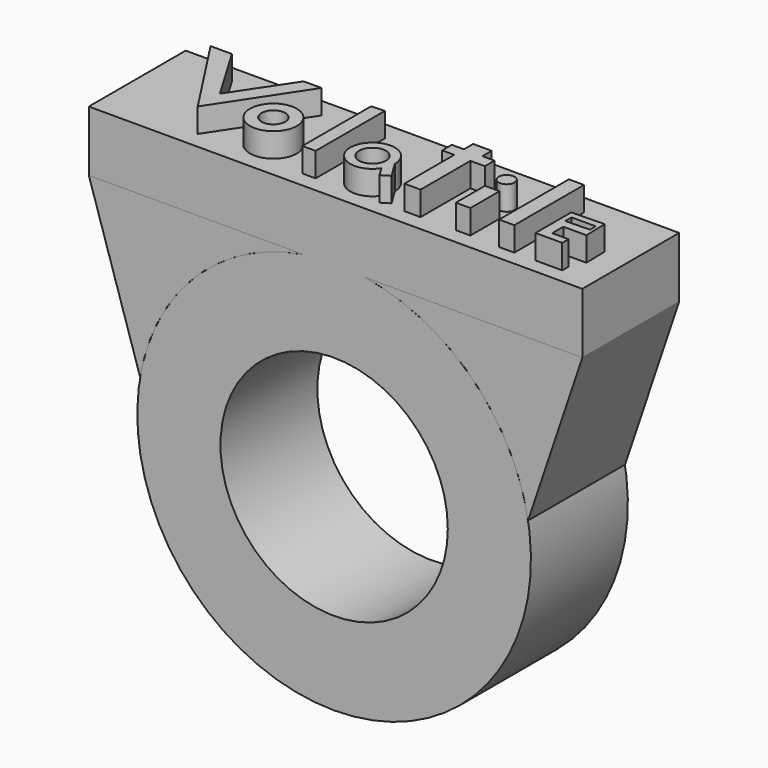
from build123d import *

# Parameters (mm, degrees)
F0_R     = 16.25
F0_R_2   = 9.385
F1_DEPTH = 10
F2_W     = 40.7407447589
F2_H     = 5
F3_DEPTH = 10
F4_R     = 1.9337093682
F4_R_2   = 0.9816924099
F4_R_3   = 1.1106573772
F4_W     = 1.2018270791
F4_H     = 3.0057999915
F4_R_4   = 0.6509895902
F4_W_2   = 1.2519030424
F4_H_2   = 7.1941594385
F5_DEPTH = 2
F7_DEPTH = 10


with BuildPart() as f1:
    # F0 (on Front) → F1 (new body)
    with BuildSketch(Plane.XZ):
        with Locations((-13.0951609462, 7.3390468024)):
            Circle(F0_R)
        with Locations((-13.0951609462, 7.3390468024)):
            Circle(F0_R_2, mode=Mode.SUBTRACT)
    extrude(amount=F1_DEPTH)

    # F2 (on face) → F3 (join)
    with BuildSketch(Plane.XZ.offset(10)):
        with Locations((-12.9778040573, 25.8925622329)):
            Rectangle(F2_W, F2_H)
    extrude(amount=-F3_DEPTH)

    # F4 (on face) → F5 (join)
    with BuildSketch(Plane.XY.offset(28.3925622329)):
        Polygon((-28.3292634413, -1.5072070747), (-30.0911674652, -1.5072070747), (-25.4721205841, -8.6024456866), (-20.8530719319, -1.6024449117), (-22.3292625557, -1.6024449117), (-25.4721205841, -6.3167309581), align=None)
        with Locations((-20.7102152318, -6.7453023866)):
            Circle(F4_R)
        with Locations((-20.7102152318, -6.7453023866)):
            Circle(F4_R_2, mode=Mode.SUBTRACT)
        Polygon((-15.6625955938, -1.5548256058), (-16.7578335414, -1.6024449117), (-16.7578335414, -8.697684077), (-15.6625955938, -8.697684077), align=None)
        with BuildLine():
            ThreePointArc((-10.5393779229, -6.9366346274), (-10.5393777734, -6.9362066761), (-10.5393777235, -6.9357787247))
            ThreePointArc((-10.5393777235, -6.9357787247), (-14.1375755871, -6.41006788), (-10.8401901532, -7.9432505364))
            ThreePointArc((-10.8401901532, -7.9432505364), (-10.6163086283, -7.461899618), (-10.5393779229, -6.9366346274))
        make_face()
        with Locations((-12.3768808653, -6.9357787247)):
            Circle(F4_R_3, mode=Mode.SUBTRACT)
        with BuildLine():
            ThreePointArc((-10.5393779229, -6.9366346274), (-10.6163086283, -7.461899618), (-10.8401901532, -7.9432505364))
            Line((-10.8401901532, -7.9432505364), (-10.3299132729, -8.7741625592))
            Line((-10.3299132729, -8.7741625592), (-9.6625938225, -8.3643505961))
            Line((-9.6625938225, -8.3643505961), (-10.5393779229, -6.9366346274))
        make_face()
        Polygon((-6.805451851, -1.6024449117), (-8.3352142721, -1.6024449117), (-8.3352142721, -2.5548260486), (-9.3352142721, -2.5548260486), (-9.3352142721, -3.5548260486), (-8.3352142721, -3.5548260486), (-8.3352142721, -8.697684077), (-7.001881234, -8.697684077), (-7.001881234, -3.5548260486), (-5.805451851, -3.5548260486), (-5.805451851, -2.5548260486), (-6.805451851, -2.5548260486), align=None)
        with Locations((-3.4888256341, -7.1947840813)):
            Rectangle(F4_W, F4_H)
        with Locations((-3.5389016848, -4.1395234875)):
            Circle(F4_R_4)
        with Locations((0.1917704794, -5.1995246309)):
            Rectangle(F4_W_2, F4_H_2)
        Polygon((2.5683134807, -8.7966043502), (4.7737364657, -8.7966043502), (4.7737364657, -8.1456145272), (3.4216814674, -8.1456145272), (3.4216814674, -6.993863266), (5.3245741874, -6.993863266), (5.2744979039, -5.0408942625), (2.5683134807, -5.1102838218), align=None)
        Polygon((3.0210714322, -6.2927971594), (3.0210714322, -5.6418073364), (5.0241174176, -5.6418073364), (5.0241174176, -6.2414368467), align=None, mode=Mode.SUBTRACT)
    extrude(amount=F5_DEPTH)


with BuildPart() as f7:
    # F6 (on face) → F7 (new body)
    with BuildSketch(Plane.XZ.offset(10)):
        with BuildLine():
            Line((-15.6145144985, 23.3925622329), (-33.3481764367, 23.3925622329))
            Line((-33.3481764367, 23.3925622329), (-29.1096384632, 10.0956769657))
            ThreePointArc((-29.1096384632, 10.0956769657), (-24.5003138597, 18.9142352251), (-15.6145144985, 23.3925622329))
        make_face()
    extrude(amount=-F7_DEPTH)


with BuildPart() as f7b:
    # F6 (on face) → F7, piece 2 (new body)
    with BuildSketch(Plane.XZ.offset(10)):
        with BuildLine():
            ThreePointArc((-10.575807394, 23.3925622329), (-1.6900080328, 18.9142352251), (2.9193165707, 10.0956769657))
            Line((2.9193165707, 10.0956769657), (7.3925683221, 23.3925622329))
            Line((7.3925683221, 23.3925622329), (-10.575807394, 23.3925622329))
        make_face()
    extrude(amount=-F7_DEPTH)


solid = Compound([f1.part, f7.part, f7b.part])
